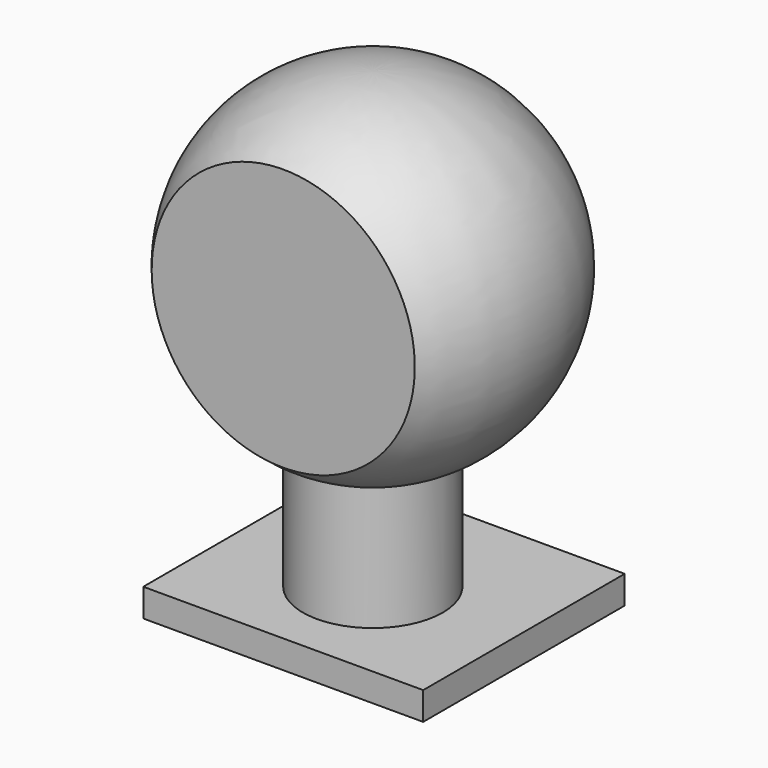
from build123d import *

# Parameters (mm, degrees)
F0_W     = 20
F0_H     = 20
F0_R     = 5
F1_DEPTH = 2
F2_DEPTH = 10
F5_W     = 20
F5_H     = 48
F6_DEPTH = 2
F5_H_2   = 50
F7_DEPTH = 5
F8_DEPTH = 2


with BuildPart() as f1:
    # F0 (on Top) → F1 (new body)
    with BuildSketch(Plane.XY):
        Rectangle(F0_W, F0_H)
        Circle(F0_R, mode=Mode.SUBTRACT)
        Circle(F0_R)
    extrude(amount=-F1_DEPTH)

    # F0 (on Top) → F2 (join)
    with BuildSketch(Plane.XY):
        Circle(F0_R)
    extrude(amount=F2_DEPTH)

    # F3 (on Right) → F4 (revolve)
    with BuildSketch(Plane.YZ):
        with BuildLine():
            Line((0, 32.42085), (0, 7.821007))
            ThreePointArc((0, 7.821007), (12.343947, 20.120929), (0, 32.42085))
        make_face()
    revolve(axis=Axis((0, 0, 16.210425), (0, 0, 1)))

    # F5 (on face) → F6 (cut)
    with BuildSketch(Plane.XZ.offset(10)):
        with Locations((0, 24)):
            Rectangle(F5_W, F5_H)
    extrude(amount=-F6_DEPTH, mode=Mode.SUBTRACT)

    # F5 (on face) → F7 (cut)
    with BuildSketch(Plane.XZ.offset(10)):
        with Locations((0, 23)):
            Rectangle(F5_W, F5_H_2)
    extrude(amount=F7_DEPTH, mode=Mode.SUBTRACT)

    # F5 (on face) → F8 (cut)
    with BuildSketch(Plane.XZ.offset(10)):
        with Locations((0, 23)):
            Rectangle(F5_W, F5_H_2)
    extrude(amount=-F8_DEPTH, mode=Mode.SUBTRACT)


solid = f1.part
